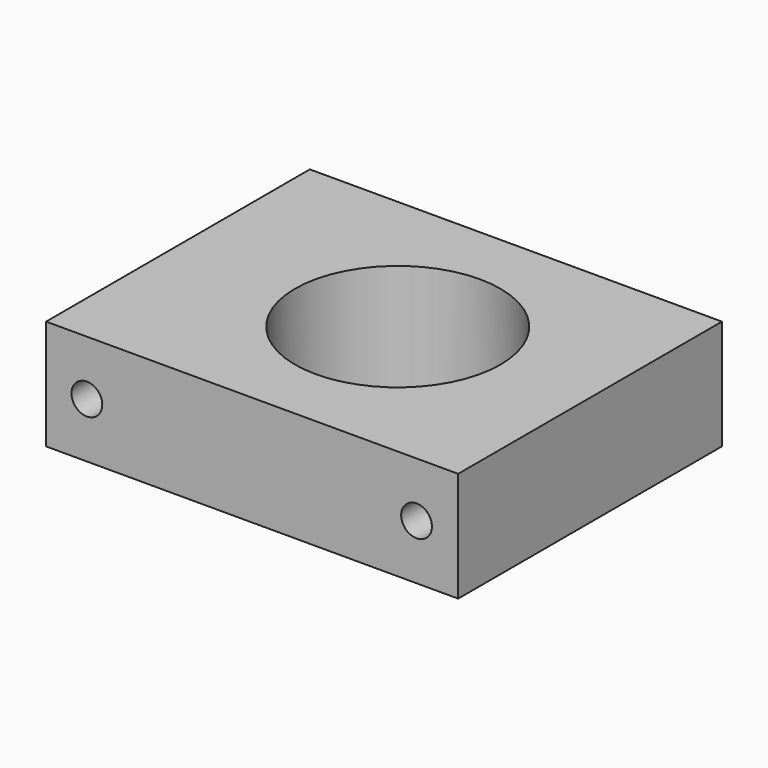
from build123d import *

# Parameters (mm, degrees)
F1_DEPTH  = 25.4
F2_R      = 3.556
F3_DEPTH  = 30.342798
F3_FACE_R = 3.556
F4_DEPTH  = 45.857202


with BuildPart() as f1:
    # F0 (on Top) → F1 (new body)
    with BuildSketch(Plane.XY):
        with BuildLine():
            Line((-2.147933, 7.757202), (-29.198933, 7.757202))
            Line((-29.198933, 7.757202), (-29.198933, -30.342798))
            Line((-29.198933, -30.342798), (66.051067, -30.342798))
            Line((66.051067, -30.342798), (66.051067, 7.757202))
            Line((66.051067, 7.757202), (45.350067, 7.757202))
            ThreePointArc((45.350067, 7.757202), (21.601067, -15.991798), (-2.147933, 7.757202))
        make_face()
        with BuildLine():
            Line((66.051067, 45.857202), (-29.198933, 45.857202))
            Line((-29.198933, 45.857202), (-29.198933, 7.757202))
            Line((-29.198933, 7.757202), (-2.147933, 7.757202))
            ThreePointArc((-2.147933, 7.757202), (21.601067, 31.506202), (45.350067, 7.757202))
            Line((45.350067, 7.757202), (66.051067, 7.757202))
            Line((66.051067, 7.757202), (66.051067, 45.857202))
        make_face()
    extrude(amount=F1_DEPTH)

    # F2 (on Front) → F3 (cut, through all)
    with BuildSketch(Plane.XZ):
        with Locations((-19.768986, 12.707096)):
            Circle(F2_R)
        with Locations((56.431014, 12.707096)):
            Circle(F2_R)
    extrude(amount=F3_DEPTH, mode=Mode.SUBTRACT)

    # F3_face (on face) → F4 (cut, through all)
    with BuildSketch(Plane(origin=(-19.768986, 0, 12.707096), x_dir=(1, 0, 0), z_dir=(0, -1, 0))):
        Circle(F3_FACE_R)
        with Locations((76.2, 0)):
            Circle(F3_FACE_R)
    extrude(amount=-F4_DEPTH, mode=Mode.SUBTRACT)


solid = f1.part
